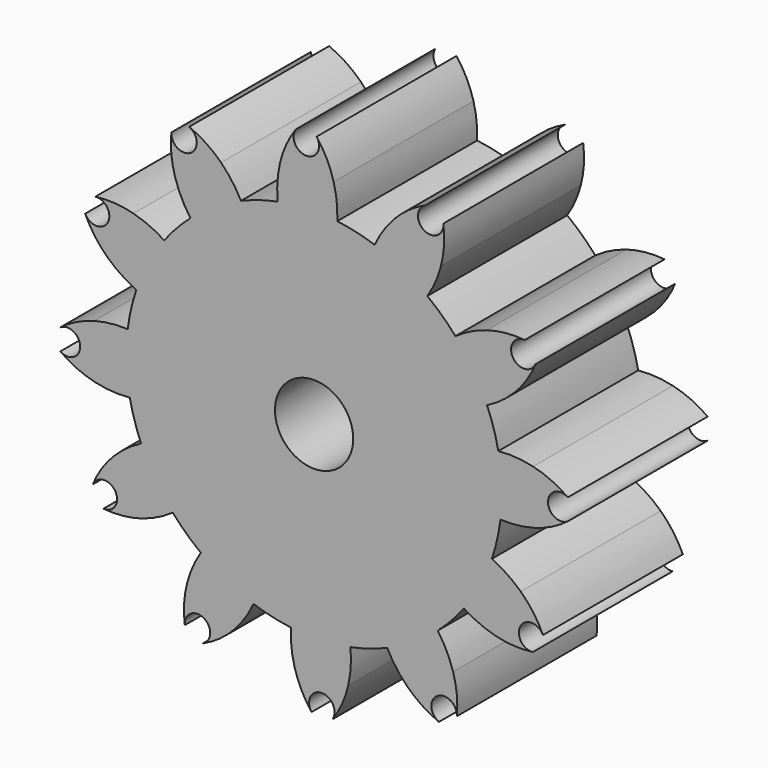
from build123d import *

# Parameters (mm, degrees)
F1_DEPTH = 25
F2_COUNT = 12
F3_R     = 5.594929
F4_DEPTH = 45.5


with BuildPart() as f1:
    # F0 (on Front) → F1 (new body)
    with BuildSketch(Plane.XZ):
        with BuildLine():
            ThreePointArc((-5.207343, 26.350902), (-17.053073, -20.752811), (26.8605, 0))
            ThreePointArc((26.8605, 0), (20.131278, 17.782523), (3.315285, 26.655119))
            ThreePointArc((3.315285, 26.655119), (-0.958179, 26.843404), (-5.207343, 26.350902))
        make_face()
        with BuildLine():
            ThreePointArc((-5.207343, 26.350902), (-0.958179, 26.843404), (3.315285, 26.655119))
            ThreePointArc((3.315285, 26.655119), (3.247938, 29.073857), (2.798331, 31.451394))
            ThreePointArc((2.798331, 31.451394), (1.82091, 34.016407), (0.364343, 36.343005))
            ThreePointArc((0.364343, 36.343005), (-1.075338, 33.452857), (-2.616887, 36.289979))
            ThreePointArc((-2.616887, 36.289979), (-3.989795, 33.913056), (-4.875382, 31.314906))
            ThreePointArc((-4.875382, 31.314906), (-5.245453, 28.846552), (-5.207343, 26.350902))
        make_face()
    extrude(amount=F1_DEPTH)

    # F2: F1 ×12 about axis
    f2_axis = Axis((0, 0, 0), (0, 1, 0))


with BuildPart() as f1_1:
    add(f1.part)
    for i in range(1, F2_COUNT):
        add(f1.part.rotate(f2_axis, i * 360 / F2_COUNT))

    # F3 (on face) → F4 (cut)
    with BuildSketch(Plane.XZ.offset(25)):
        Circle(F3_R)
    extrude(amount=-F4_DEPTH, mode=Mode.SUBTRACT)


solid = f1_1.part
